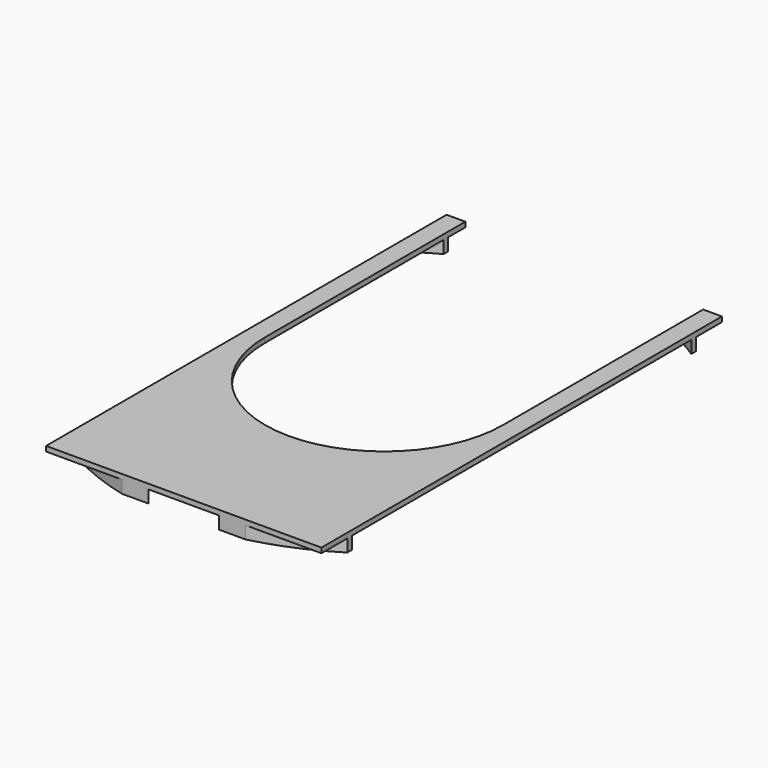
from build123d import *

# Parameters (mm, degrees)
F1_DEPTH = 10
F3_DEPTH = 25


with BuildPart() as f1:
    # F0 (on Top) → F1 (new body)
    with BuildSketch(Plane.XY):
        with BuildLine():
            ThreePointArc((237.5, 0), (0, -237.5), (-237.5, 0))
            Line((-237.5, 0), (-237.5, 500))
            Line((-237.5, 500), (-275, 500))
            Line((-275, 500), (-275, -500))
            Line((-275, -500), (275, -500))
            Line((275, -500), (275, 500))
            Line((275, 500), (237.5, 500))
            Line((237.5, 500), (237.5, 0))
        make_face()
    extrude(amount=F1_DEPTH)

    # F2 (on face) → F3 (join)
    with BuildSketch(Plane(origin=(0, 0, 0), x_dir=(1, 0, 0), z_dir=(0, 0, -1))):
        with BuildLine():
            ThreePointArc((-275, 423.556372), (-177.116916, 472.921345), (-70.887234, 500))
            Line((-70.887234, 500), (-123.389627, 500))
            ThreePointArc((-123.389627, 500), (-201.794124, 473.81867), (-275, 435.430821))
            Line((-275, 435.430821), (-275, 423.556372))
        make_face()
        with BuildLine():
            ThreePointArc((275, -423.556372), (256.488359, -435.015772), (237.5, -445.666636))
            Line((237.5, -445.666636), (237.5, -456.966903))
            ThreePointArc((237.5, -456.966903), (256.476145, -446.592641), (275, -435.430821))
            Line((275, -435.430821), (275, -423.556372))
        make_face()
        with BuildLine():
            ThreePointArc((-275, -435.430821), (-256.476145, -446.592641), (-237.5, -456.966903))
            Line((-237.5, -456.966903), (-237.5, -445.666636))
            ThreePointArc((-237.5, -445.666636), (-256.488359, -435.015772), (-275, -423.556372))
            Line((-275, -423.556372), (-275, -435.430821))
        make_face()
        with BuildLine():
            Line((123.389627, 500), (70.887234, 500))
            ThreePointArc((70.887234, 500), (177.116916, 472.921345), (275, 423.556372))
            Line((275, 423.556372), (275, 435.430821))
            ThreePointArc((275, 435.430821), (201.794124, 473.81867), (123.389627, 500))
        make_face()
    extrude(amount=F3_DEPTH)


solid = f1.part
